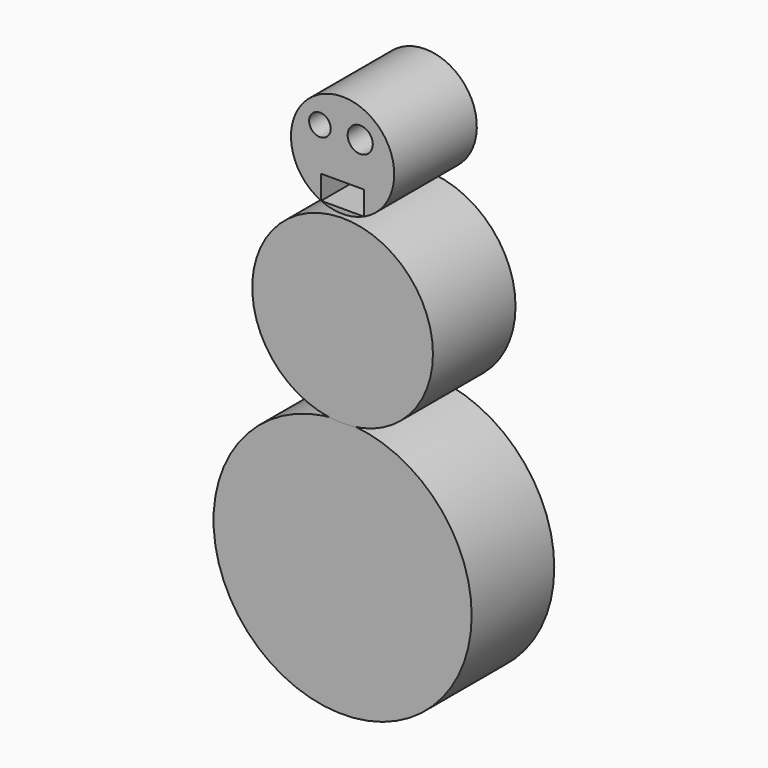
from build123d import *

# Parameters (mm, degrees)
F0_R     = 31.75
F1_DEPTH = 25.4
F2_R     = 22.225
F3_DEPTH = 25.4
F2_R_2   = 12.7
F4_R     = 3.0951637775
F4_R_2   = 2.662560035
F5_DEPTH = 25.4
F7_DEPTH = 25.4


with BuildPart() as f1:
    # F0 (on Front) → F1 (new body)
    with BuildSketch(Plane.XZ):
        with Locations((0, -31.75)):
            Circle(F0_R)
    extrude(amount=F1_DEPTH)


with BuildPart() as f3:
    # F2 (on Front) → F3 (new body)
    with BuildSketch(Plane.XZ):
        with Locations((0, 21.7619820305)):
            Circle(F2_R)
    extrude(amount=F3_DEPTH)


with BuildPart() as f3b:
    # F2 (on Front) → F3, piece 2 (new body)
    with BuildSketch(Plane.XZ):
        with Locations((0, 57.5689266813)):
            Circle(F2_R_2)
    extrude(amount=F3_DEPTH)

    # F4 (on face) → F5 (cut)
    with BuildSketch(Plane.XZ.offset(25.4)):
        with Locations((4.3332311325, 62.3675622046)):
            Circle(F4_R)
        with Locations((-5.5712959729, 62.3675622046)):
            Circle(F4_R_2)
    extrude(amount=-F5_DEPTH, mode=Mode.SUBTRACT)

    # F6 (on face) → F7 (cut)
    with BuildSketch(Plane.XZ.offset(25.4)):
        Polygon((5.253074225, 51.8712922931), (-5.2657830529, 51.8712922931), (-5.2657830529, 46.0120443665), (5.2657830529, 46.0120443665), align=None)
    extrude(amount=-F7_DEPTH, mode=Mode.SUBTRACT)


solid = Compound([f1.part, f3.part, f3b.part])
